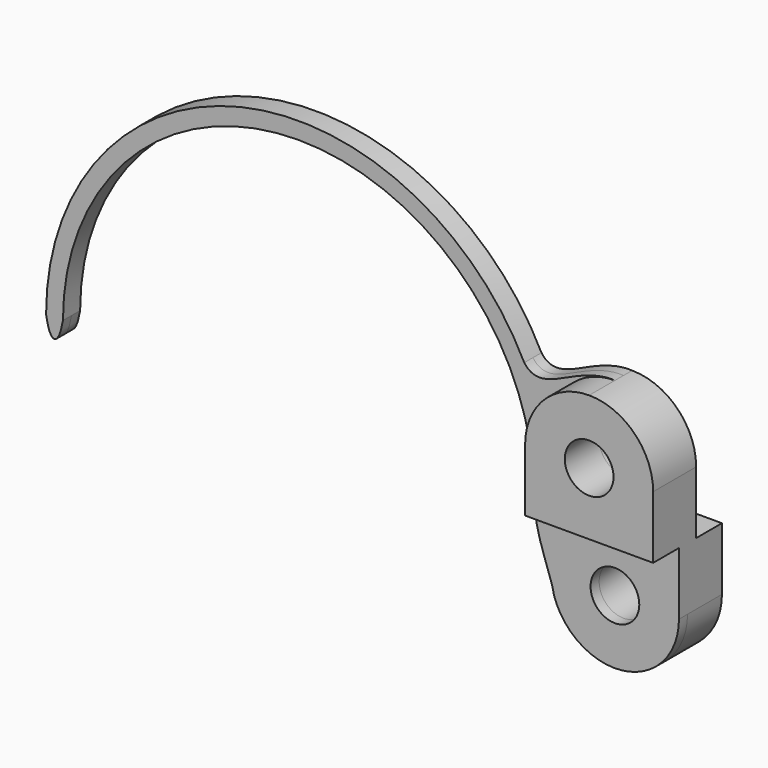
from build123d import *

# Parameters (mm, degrees)
F0_R          = 1.439889
F1_DEPTH      = 2.54
F1_DEPTH_BACK = 0.635
F2_DEPTH      = 0.635
F2_DEPTH_BACK = 2.54
F3_DEPTH      = 0.635
F3_DEPTH_BACK = 0.635


with BuildPart() as f1:
    # F0 (on Front) → F1 (new body, two sides)
    with BuildSketch(Plane.XZ) as f1_sk:
        with BuildLine():
            ThreePointArc((0, 7.488282), (-2.675809, 6.379925), (-3.784166, 3.704116))
            Line((-3.784166, 3.704116), (-3.784166, 0))
            Line((-3.784166, 0), (3.784166, 0))
            Line((3.784166, 0), (3.784166, 3.704116))
            ThreePointArc((3.784166, 3.704116), (2.675809, 6.379925), (0, 7.488282))
        make_face()
        with Locations((0, 3.704116)):
            Circle(F0_R, mode=Mode.SUBTRACT)
    extrude(amount=F1_DEPTH)
    extrude(f1_sk.sketch, amount=-F1_DEPTH_BACK)

    # F0 (on Front) → F2 (join, two sides)
    with BuildSketch(Plane.XZ) as f2_sk:
        with BuildLine():
            Line((3.784166, 0), (-3.784166, 0))
            Line((-3.784166, 0), (-3.784166, -3.704116))
            ThreePointArc((-3.784166, -3.704116), (-3.772481, -4.00126), (-3.7375, -4.296569))
            add(Edge.make_bspline(
                [(-3.7375, -4.296569), (-3.677352, -4.496531), (-3.629914, -4.685815), (-3.601814, -4.864653)],
                knots=[4.234155, 4.234155, 4.234155, 4.234155, 5.005496, 5.005496, 5.005496, 5.005496], degree=3))
            ThreePointArc((-3.601814, -4.864653), (0.587388, -7.442416), (3.784166, -3.704116))
            Line((3.784166, -3.704116), (3.784166, 0))
        make_face()
        with Locations((0, -3.704116)):
            Circle(F0_R, mode=Mode.SUBTRACT)
    extrude(amount=F2_DEPTH)
    extrude(f2_sk.sketch, amount=-F2_DEPTH_BACK)

    # F0 (on Front) → F3 (join, two sides)
    with BuildSketch(Plane.XZ) as f3_sk:
        with BuildLine():
            Line((-3.784166, 0), (-3.784166, 3.704116))
            ThreePointArc((-3.784166, 3.704116), (-2.675809, 6.379925), (0, 7.488282))
            add(Edge.make_bspline(
                [(-5.358132, 6.670184), (-4.27145, 5.197869), (-2.361172, 7.617555), (0, 7.488282)],
                knots=[0, 0, 0, 0, 5.420227, 5.420227, 5.420227, 5.420227], degree=3))
            ThreePointArc((-5.358132, 6.670184), (-4.182987, 3.426687), (-3.784166, 0))
        make_face()
        with BuildLine():
            Line((-3.784166, -3.704116), (-3.784166, 0))
            ThreePointArc((-3.784166, 0), (-4.182987, 3.426687), (-5.358132, 6.670184))
            ThreePointArc((-5.358132, 6.670184), (-22.131354, 14.52168), (-33.62517, 0))
            add(Edge.make_bspline(
                [(-32.628478, 0), (-32.883175, -1.509331), (-33.392582, -1.509331), (-33.62517, 0)],
                knots=[0, 0, 0, 0, 0.996692, 0.996692, 0.996692, 0.996692], degree=3))
            ThreePointArc((-32.628478, 0), (-18.704668, 13.92381), (-4.780858, 0))
            add(Edge.make_bspline(
                [(-4.780858, 0), (-4.780858, -1.779471), (-4.067676, -3.198905), (-3.7375, -4.296569)],
                knots=[0, 0, 0, 0, 4.234155, 4.234155, 4.234155, 4.234155], degree=3))
            ThreePointArc((-3.7375, -4.296569), (-3.772481, -4.00126), (-3.784166, -3.704116))
        make_face()
    extrude(amount=F3_DEPTH)
    extrude(f3_sk.sketch, amount=-F3_DEPTH_BACK)


solid = f1.part
